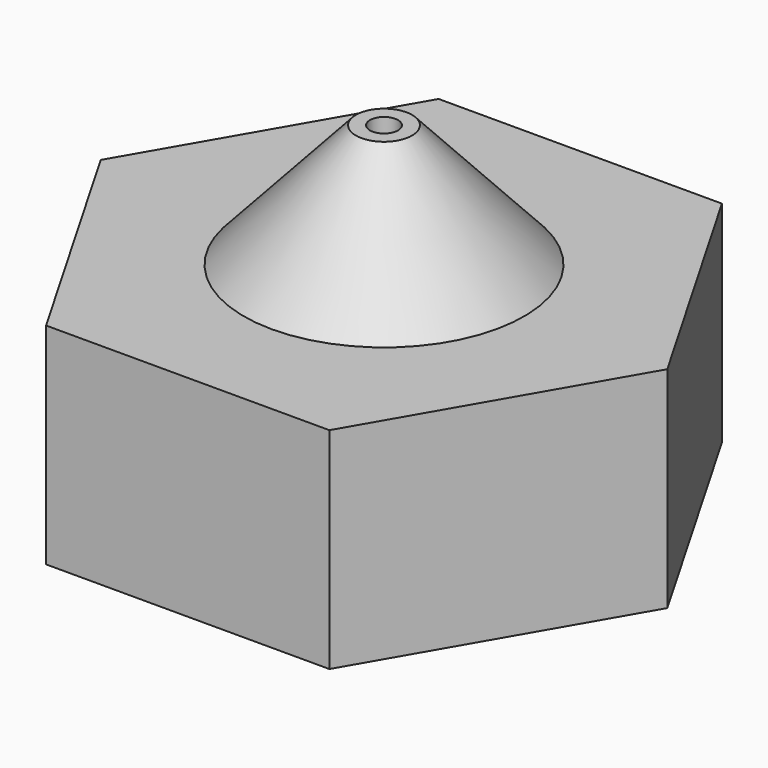
from build123d import *

# Parameters (mm, degrees)
F1_DEPTH = 3
F4_R     = 2
F5_DEPTH = 2


with BuildPart() as f1:
    # F0 (on Top) → F1 (new body)
    with BuildSketch(Plane.XY):
        Polygon((2.020726, -3.5), (4.041452, 0), (2.020726, 3.5), (-2.020726, 3.5), (-4.041452, 0), (-2.020726, -3.5), align=None)
    extrude(amount=F1_DEPTH)

    # F2 (on Right) → F3 (revolve)
    with BuildSketch(Plane.YZ):
        Polygon((-0.4, 4.75), (-2, 3), (-0.2, 3), (-0.2, 4.75), align=None)
    revolve(axis=Axis((0, 0, 3.308563), (0, 0, 1)))

    # F4 (on face) → F5 (cut)
    with BuildSketch(Plane(origin=(0, 0, 0), x_dir=(1, 0, 0), z_dir=(0, 0, -1))):
        Circle(F4_R)
    extrude(amount=-F5_DEPTH, mode=Mode.SUBTRACT)


solid = f1.part
